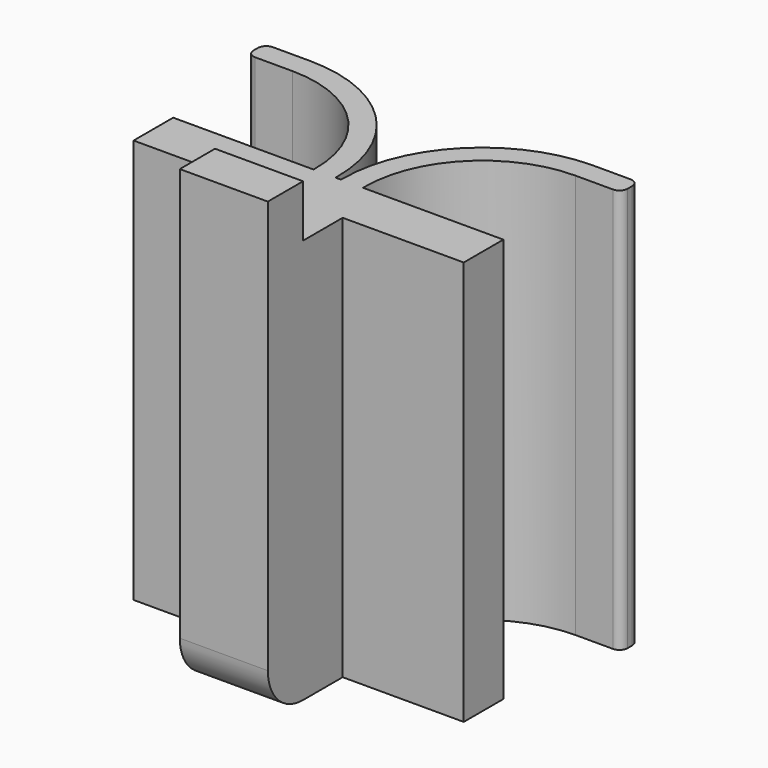
from build123d import *

# Parameters (mm, degrees)
PAD013_DEPTH = 14.7
FILLET007_R  = 0.3
BOX003_W     = 3.2
BOX003_H     = 16.6
BOX003_DEPTH = 1.6
FILLET011_R  = 1.59


with BuildPart() as part:
    # Sketch025 → Pad013 (new body)
    with BuildSketch(Plane.XY):
        with BuildLine():
            Line((-1.6, 0), (-6, 0))
            Line((-6, 0), (-6, 1.8))
            Line((-6, 1.8), (-0.9, 1.8))
            Line((-0.9, 1.8), (-0.9, 1.9))
            ThreePointArc((-0.9, 1.9), (-2.144796, 4.905204), (-5.15, 6.15))
            Line((-5.15, 6.15), (-6.8, 6.15))
            Line((-6.8, 6.15), (-6.8, 6.95))
            Line((-6.8, 6.95), (-5.15, 6.95))
            ThreePointArc((-0.1, 1.9), (-1.579111, 5.470889), (-5.15, 6.95))
            Line((-0.1, 1.8), (-0.1, 1.9))
            Line((0, 1.8), (-0.1, 1.8))
            Line((0, -1.8), (0, 1.8))
            Line((-1.6, -1.8), (0, -1.8))
            Line((-1.6, 0), (-1.6, -1.8))
        make_face()
    pad013 = extrude(amount=PAD013_DEPTH)

    # Mirrored005: Pad013 across Sketch025 V_Axis
    add(pad013.mirror(Plane(origin=(0, 0, 0), x_dir=(0, 0, 1), z_dir=(1, 0, 0))))

    # Fillet007
    fillet007_edges = [part.edges().sort_by_distance(p)[0] for p in [
        (6.8, 6.15, 7.35),
        (6.8, 6.95, 7.35),
        (-6.8, 6.95, 7.35),
        (-6.8, 6.15, 7.35),
    ]]
    fillet(fillet007_edges, radius=FILLET007_R)

    # Box003 → Box003 (join)
    with BuildSketch(Plane(origin=(-1.6, -1.8, 0), x_dir=(1, 0, 0), z_dir=(0, -1, 0))):
        with Locations((1.6, 8.3)):
            Rectangle(BOX003_W, BOX003_H)
    extrude(amount=BOX003_DEPTH)

    # Fillet011
    fillet011_edges = [part.edges().sort_by_distance(p)[0] for p in [
        (0, -3.4, 0),
    ]]
    fillet(fillet011_edges, radius=FILLET011_R)


with BuildPart() as part_1:
    # Body002 placement: moved
    add(part.part.moved(Location((-39, 1.8, 7.075))))


solid = part_1.part
